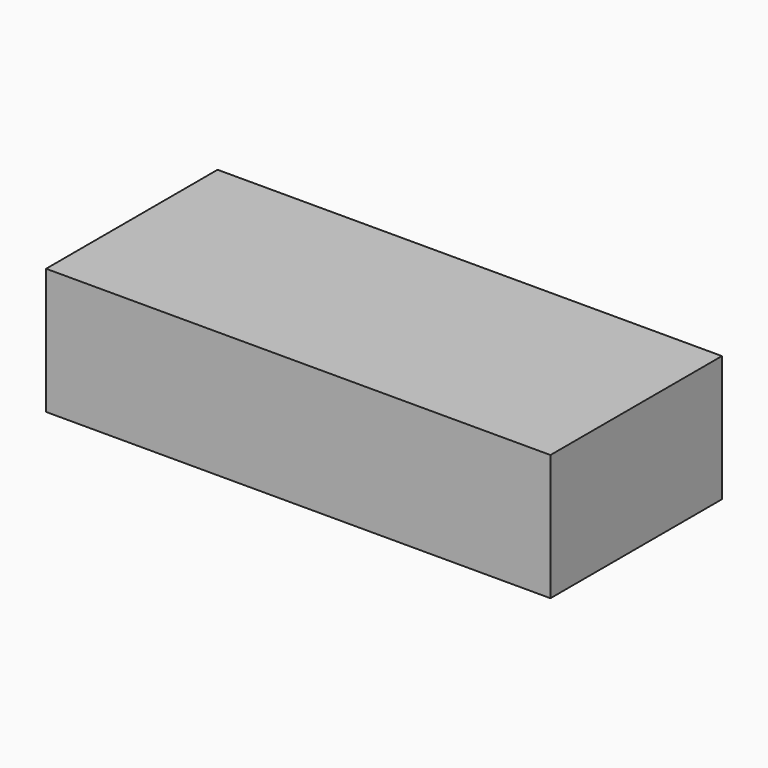
from build123d import *

# Parameters (mm, degrees)
BOX_W     = 40
BOX_H     = 17
BOX_DEPTH = 10


with BuildPart() as part:
    # Box → Box (new body)
    with BuildSketch(Plane.XY):
        with Locations((20, 8.5)):
            Rectangle(BOX_W, BOX_H)
    extrude(amount=BOX_DEPTH)


solid = part.part
